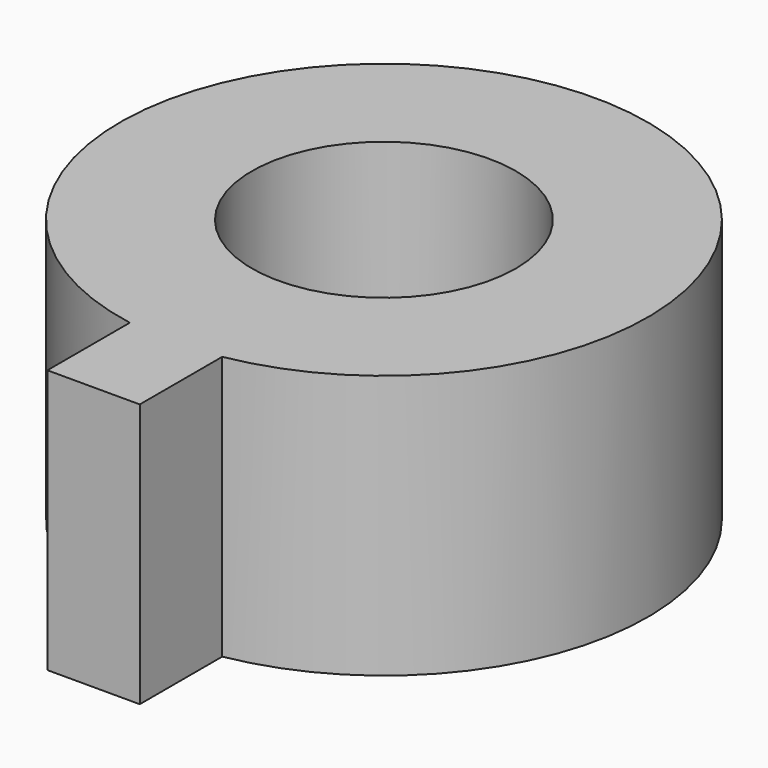
from build123d import *

# Parameters (mm, degrees)
F0_R     = 20
F0_R_2   = 10
F1_DEPTH = 20
F2_W     = 7
F2_H     = 15
F3_DEPTH = 20


with BuildPart() as f1:
    # F0 (on Top) → F1 (new body)
    with BuildSketch(Plane.XY):
        Circle(F0_R)
        Circle(F0_R_2, mode=Mode.SUBTRACT)
    extrude(amount=F1_DEPTH)

    # F2 (on face) → F3 (join)
    with BuildSketch(Plane.XY.offset(20)):
        with Locations((0, -20)):
            Rectangle(F2_W, F2_H)
    extrude(amount=-F3_DEPTH)


solid = f1.part
